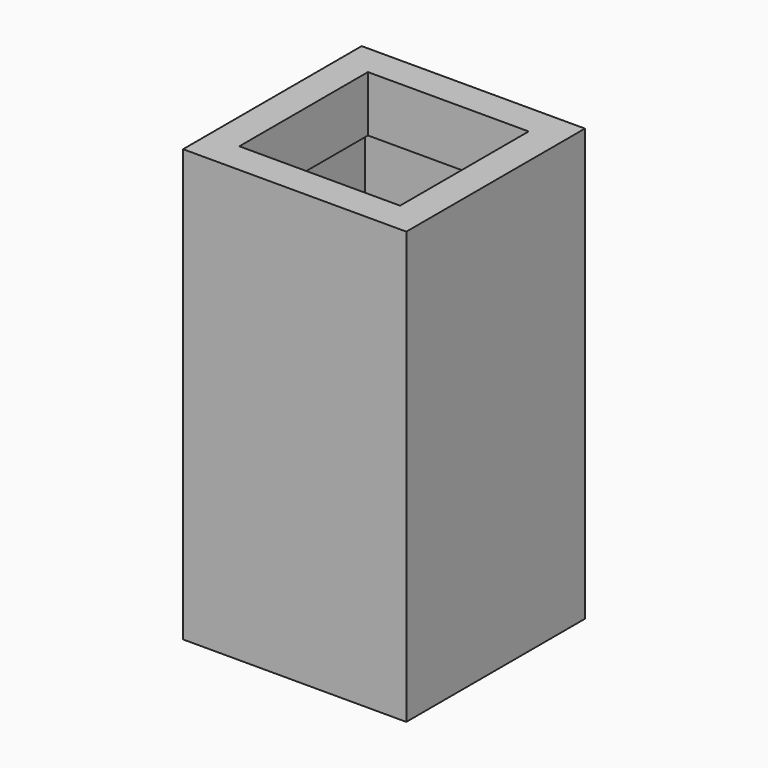
from build123d import *

# Parameters (mm, degrees)
F0_W     = 76.2
F0_H     = 76.2
F0_W_2   = 65.024
F0_H_2   = 65.024
F1_DEPTH = 147.32
F2_W     = 76.2
F2_H     = 76.2
F2_W_2   = 54.864
F2_H_2   = 54.864
F3_DEPTH = 19.05


with BuildPart() as f1:
    # F0 (on Top) → F1 (new body)
    with BuildSketch(Plane.XY):
        Rectangle(F0_W, F0_H)
        Rectangle(F0_W_2, F0_H_2, mode=Mode.SUBTRACT)
    extrude(amount=F1_DEPTH)

    # F2 (on face) → F3 (join)
    with BuildSketch(Plane.XY.offset(147.32)):
        Rectangle(F2_W, F2_H)
        Rectangle(F2_W_2, F2_H_2, mode=Mode.SUBTRACT)
    extrude(amount=-F3_DEPTH)


solid = f1.part
